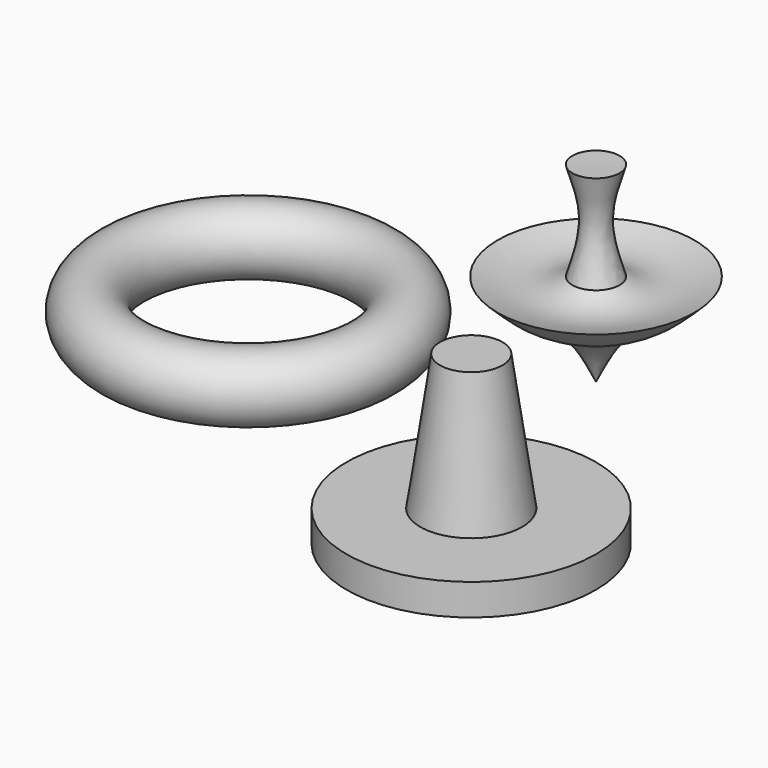
from build123d import *

# Parameters (mm, degrees)
F4_R = 10.4403131941


with BuildPart() as f1:
    # F0 (on Front) → F1 (revolve)
    with BuildSketch(Plane.XZ):
        with BuildLine():
            Line((0, 0), (0, 60.590095818))
            Line((0, 60.590095818), (-7.4855289422, 60.8204202103))
            add(Edge.make_bspline(
                [(-7.4855289422, 60.8204202103), (-5.8662878599, 55.7589090862), (-2.5905039536, 45.5192870417), (-5.8415140662, 34.8922675521), (-7.4855289422, 29.5182522386)],
                knots=[0, 0, 0, 0, 0.4943064404, 1, 1, 1, 1], degree=3))
            add(Edge.make_bspline(
                [(-31.2272049487, 29.5182522386), (-26.0043157829, 27.8623622158), (-16.6258438306, 24.8889661427), (-10.2920297246, 28.0968466077), (-7.4855289422, 29.5182522386)],
                knots=[0, 0, 0, 0, 0.5569019337, 1, 1, 1, 1], degree=3))
            add(Edge.make_bspline(
                [(-31.2272049487, 29.5182522386), (-27.8965497403, 26.2365440032), (-21.3134631392, 19.7502017786), (-7.6371796219, 15.9962078821), (-2.6568306317, 5.5647787791), (0, 0)],
                knots=[0, 0, 0, 0, 0.3232991618, 0.6390053149, 1, 1, 1, 1], degree=3))
        make_face()
    revolve(axis=Axis((0, 0, 30.295047909), (0, 0, -1)))


with BuildPart() as f3:
    # F2 (on Front) → F3 (revolve)
    with BuildSketch(Plane.XZ):
        Polygon((-29.6736117452, -4.9714948982), (-39.6166034043, -4.9714948982), (-39.6166034043, -58.1043474376), (0, -58.1043474376), (0, -48.1613613665), (-23.4592426568, -48.1613613665), align=None)
    revolve(axis=Axis((-39.6166034043, 0, -31.5379211679), (0, 0, -1)))


with BuildPart() as f5:
    # F4 (on Front) → F5 (revolve)
    with BuildSketch(Plane.XZ):
        with Locations((-150.232359767, -16.1573588848)):
            Circle(F4_R)
    revolve(axis=Axis((-110.4604080319, 0, -17.555592116), (0, 0, -1)))


solid = Compound([f1.part, f3.part, f5.part])
